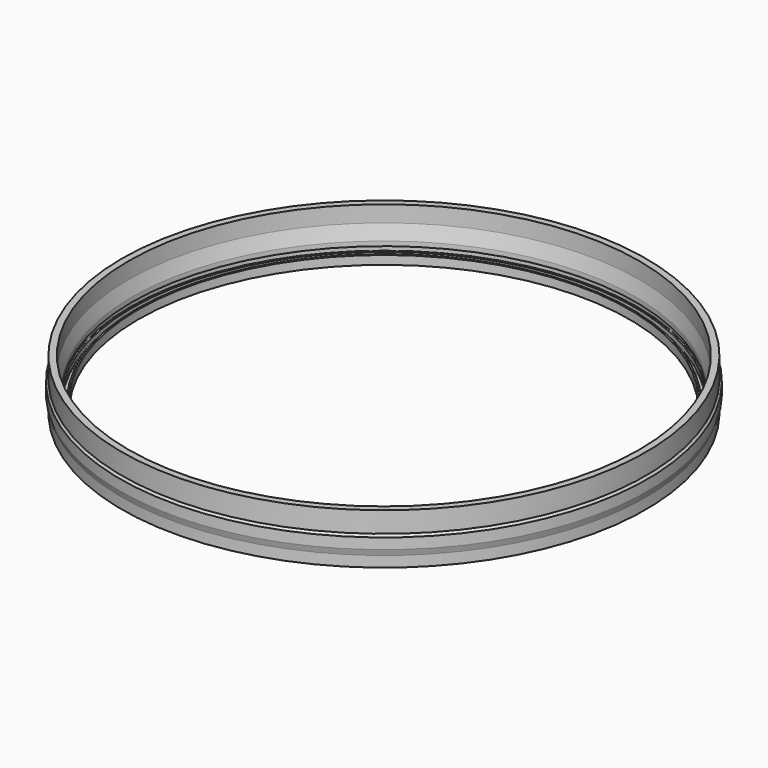
from build123d import *


with BuildPart() as f1:
    # F0 (on Front) → F1 (revolve)
    with BuildSketch(Plane.XZ):
        with BuildLine():
            Line((8.789821, 0), (0, 0))
            Line((0, 0), (0, -27.558109))
            Line((0, -27.558109), (-2.541768, -30.501208))
            Line((-2.541768, -30.501208), (-2.541768, -44.681597))
            Line((-2.541768, -44.681597), (0, -52.975785))
            Line((0, -52.975785), (0, -67.15617))
            Line((0, -67.15617), (7.090195, -67.15617))
            Line((7.090195, -67.15617), (7.26766, -64.074442))
            Line((7.26766, -64.074442), (21.796466, -64.074442))
            Line((21.796466, -64.074442), (21.796466, -52.535026))
            Line((21.796466, -52.535026), (19.643667, -52.535026))
            Line((19.643667, -52.535026), (19.135667, -53.930745))
            Line((19.135667, -53.930745), (19.135667, -59.286833))
            ThreePointArc((19.135667, -59.286833), (18.94968, -59.735846), (18.500667, -59.921833))
            Line((18.500667, -59.921833), (14.182667, -59.921833))
            ThreePointArc((14.182667, -59.921833), (13.733654, -59.735846), (13.547667, -59.286833))
            Line((13.547667, -59.286833), (13.547667, -53.190833))
            Line((13.547667, -53.190833), (11.576828, -53.190833))
            ThreePointArc((11.576828, -53.190833), (11.278934, -53.067441), (11.155542, -52.769547))
            Line((11.155542, -52.769547), (11.155542, -46.906519))
            ThreePointArc((11.155542, -46.906519), (11.278934, -46.608625), (11.576828, -46.485233))
            Line((11.576828, -46.485233), (13.547667, -46.485233))
            Line((13.547667, -46.485233), (13.547667, -40.382247))
            Line((13.547667, -40.382247), (8.789821, -21.703652))
            Line((8.789821, -21.703652), (8.789821, 0))
        make_face()
    revolve(axis=Axis((348.218067, 0, -57.259452), (0, 0, -1)))


solid = f1.part
